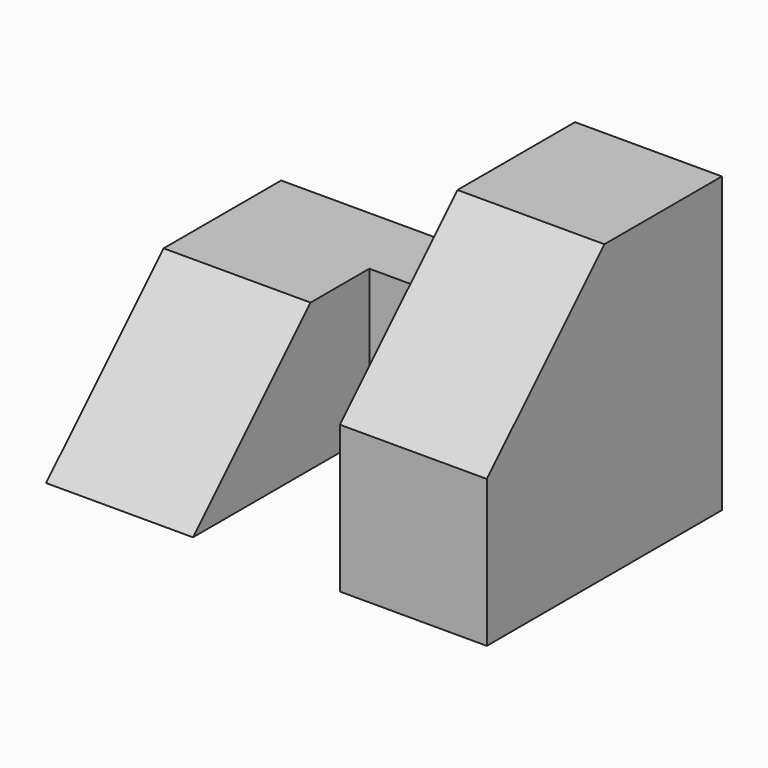
from build123d import *

# Parameters (mm, degrees)
F0_W          = 6.35
F0_H          = 12.7
F1_DEPTH      = 12.7
F2_DEPTH      = 25.4
F2_DEPTH_BACK = 12.7
F3_DEPTH      = 12.7


with BuildPart() as f1:
    # F0 (on Right) → F1 (new body)
    with BuildSketch(Plane.YZ):
        with Locations((-3.175, 6.35)):
            Rectangle(F0_W, F0_H)
        Polygon((-25.4, 0), (-6.35, 0), (-6.35, 12.7), (-12.7, 12.7), align=None)
        Polygon((-6.35, 12.7), (0, 12.7), (0, 25.4), (-12.7, 25.4), (-25.4, 12.7), (-25.4, 0), (-12.7, 12.7), align=None)
    extrude(amount=F1_DEPTH)

    # F0 (on Right) → F2 (join, two sides)
    with BuildSketch(Plane.YZ) as f2_sk:
        Polygon((-25.4, 0), (-6.35, 0), (-6.35, 12.7), (-12.7, 12.7), align=None)
        with Locations((-3.175, 6.35)):
            Rectangle(F0_W, F0_H)
    extrude(amount=-F2_DEPTH)
    extrude(f2_sk.sketch, amount=-F2_DEPTH_BACK)

    # F0 (on Right) → F3 (cut)
    with BuildSketch(Plane.YZ):
        Polygon((-25.4, 0), (-6.35, 0), (-6.35, 12.7), (-12.7, 12.7), align=None)
    extrude(amount=-F3_DEPTH, mode=Mode.SUBTRACT)


solid = f1.part
